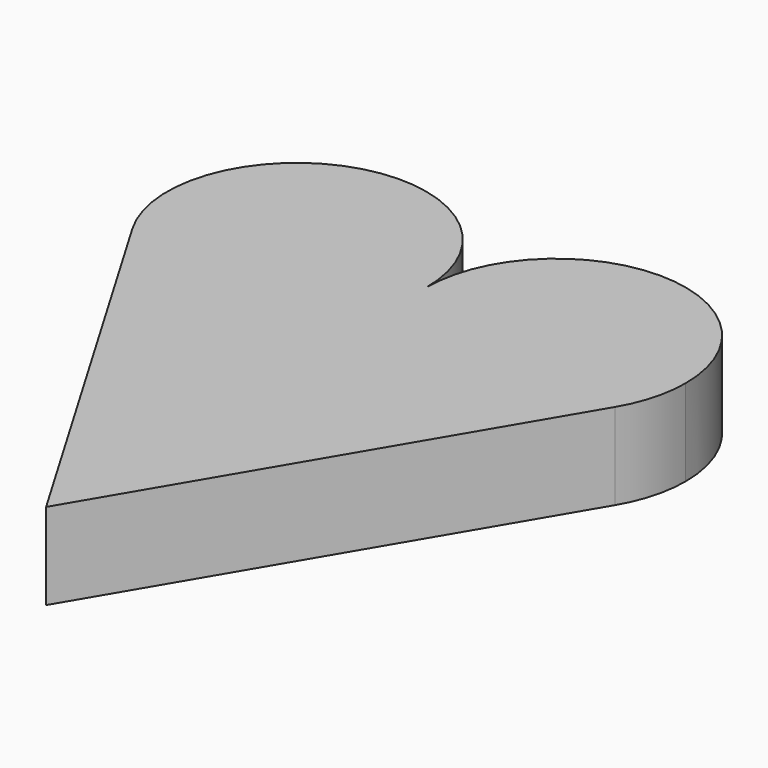
from build123d import *

# Parameters (mm, degrees)
F1_DEPTH = 10


with BuildPart() as f1:
    # F0 (on Top) → F1 (new body)
    with BuildSketch(Plane.XY):
        with BuildLine():
            ThreePointArc((-41.79777, 26.432973), (-24.927932, 19.576901), (-13.874693, 34.048358))
            ThreePointArc((-13.874693, 34.048358), (-32.821454, 48.519815), (-41.79777, 26.432973))
        make_face()
        with BuildLine():
            ThreePointArc((14.048384, 26.432973), (-2.821454, 19.576901), (-13.874693, 34.048358))
            ThreePointArc((-13.874693, 34.048358), (-24.927932, 19.576901), (-41.79777, 26.432973))
            Line((-41.79777, 26.432973), (-13.874693, -20.951642))
            Line((-13.874693, -20.951642), (14.048384, 26.432973))
        make_face()
        with BuildLine():
            ThreePointArc((16.125307, 34.048358), (1.125307, 49.048358), (-13.874693, 34.048358))
            ThreePointArc((-13.874693, 34.048358), (-2.821454, 19.576901), (14.048384, 26.432973))
            ThreePointArc((14.048384, 26.432973), (15.596764, 30.101597), (16.125307, 34.048358))
        make_face()
    extrude(amount=F1_DEPTH)


solid = f1.part
